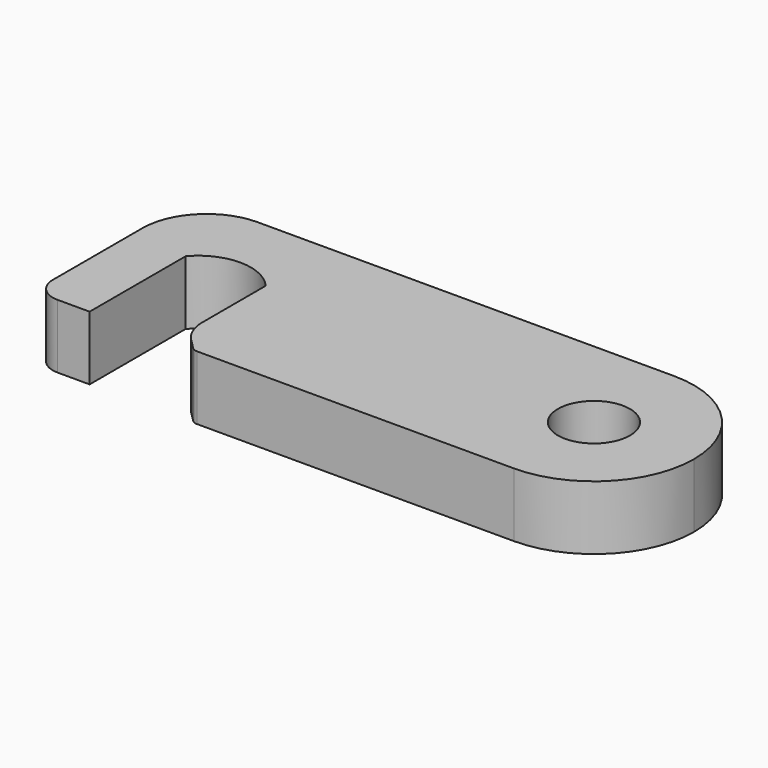
from build123d import *

# Parameters (mm, degrees)
F0_R     = 4.5
F1_DEPTH = 8
F2_SIZE  = 3
F3_R     = 5
F4_R     = 1
F5_R     = 3


with BuildPart() as f1:
    # F0 (on Top) → F1 (new body)
    with BuildSketch(Plane.XY):
        with BuildLine():
            ThreePointArc((0, -12.5), (8.8388347648, -8.8388347648), (12.5, 0))
            ThreePointArc((12.5, 0), (8.8388347648, 8.8388347648), (0, 12.5))
            ThreePointArc((0, 12.5), (-12.5, 0), (0, -12.5))
        make_face()
        Circle(F0_R, mode=Mode.SUBTRACT)
        with BuildLine():
            ThreePointArc((0, -12.5), (-12.5, 0), (0, 12.5))
            Line((0, 12.5), (-52, 12.5))
            ThreePointArc((-52, 12.5), (-57.6568542495, 10.1568542495), (-60, 4.5))
            Line((-60, 4.5), (-60, -12.5))
            Line((-60, -12.5), (-53, -12.5))
            Line((-53, -12.5), (-53, 2.5))
            ThreePointArc((-53, 2.5), (-48, 4.7966687366), (-43, 2.5))
            Line((-43, 2.5), (-43, -12.5))
            Line((-43, -12.5), (0, -12.5))
        make_face()
    extrude(amount=F1_DEPTH)

    # F2
    f2_edges = [f1.edges().sort_by_distance(p)[0] for p in [
        (-43, -12.5, 4),
    ]]
    chamfer(f2_edges, length=F2_SIZE)

    # F3
    f3_edges = [f1.edges().sort_by_distance(p)[0] for p in [
        (-43, -9.5, 4),
    ]]
    fillet(f3_edges, radius=F3_R)

    # F4
    f4_edges = [f1.edges().sort_by_distance(p)[0] for p in [
        (-40, -12.5, 4),
    ]]
    fillet(f4_edges, radius=F4_R)

    # F5
    f5_edges = [f1.edges().sort_by_distance(p)[0] for p in [
        (-60, -12.5, 4),
    ]]
    fillet(f5_edges, radius=F5_R)


solid = f1.part
